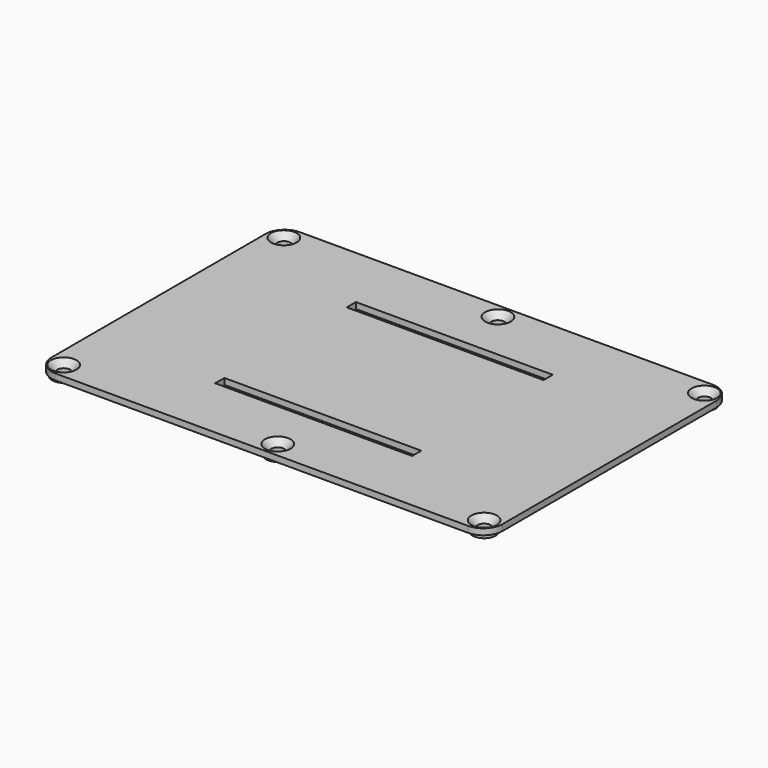
from build123d import *

# Parameters (mm, degrees)
SKETCH021_W             = 51.5
SKETCH021_H             = 3
PAD014_DEPTH            = 1.6
SKETCH022_R             = 3
PAD015_DEPTH            = 2.6
HOLE_D                  = 3.4
HOLE_DEPTH              = 25
HOLE_CSINK_D            = 6.7
HOLE_CSINK_ANGLE        = 90
BODY005_PLACEMENT_ANGLE = 180


with BuildPart() as part:
    # Sketch021 → Pad014 (new body)
    with BuildSketch(Plane.XY):
        with BuildLine():
            ThreePointArc((-54, 40), (-57.535534, 38.535534), (-59, 35))
            Line((-59, -35), (-59, 35))
            ThreePointArc((-59, -35), (-57.535534, -38.535534), (-54, -40))
            Line((54, -40), (-54, -40))
            ThreePointArc((54, -40), (57.535534, -38.535534), (59, -35))
            Line((59, 35), (59, -35))
            ThreePointArc((59, 35), (57.535534, 38.535534), (54, 40))
            Line((-54, 40), (54, 40))
        make_face()
        with Locations((0, 21.5)):
            Rectangle(SKETCH021_W, SKETCH021_H, mode=Mode.SUBTRACT)
        with Locations((0, -21.5)):
            Rectangle(SKETCH021_W, SKETCH021_H, mode=Mode.SUBTRACT)
    extrude(amount=PAD014_DEPTH)

    # Sketch022 → Pad015 (join)
    with BuildSketch(Plane.XY):
        with Locations((-55, 36)):
            Circle(SKETCH022_R)
        with Locations((1, 36)):
            Circle(SKETCH022_R)
        with Locations((55, 36)):
            Circle(SKETCH022_R)
        with Locations((55, -36)):
            Circle(SKETCH022_R)
        with Locations((1, -36)):
            Circle(SKETCH022_R)
        with Locations((-55, -36)):
            Circle(SKETCH022_R)
    extrude(amount=PAD015_DEPTH)

    # Hole
    with Locations(Plane(origin=(0, 0, 0), x_dir=(1, 0, 0), z_dir=(0, 0, -1))):
        with Locations((-55, -36), (1, -36), (55, -36), (55, 36), (1, 36), (-55, 36)):
            CounterSinkHole(HOLE_D / 2, HOLE_CSINK_D / 2, depth=HOLE_DEPTH, counter_sink_angle=HOLE_CSINK_ANGLE)


with BuildPart() as part_1:
    # Body005 placement: moved
    add(part.part.moved(Location((0, 0, 100))).rotate(Axis((0, 0, 100), (1, 0, 0)), BODY005_PLACEMENT_ANGLE))


solid = part_1.part
